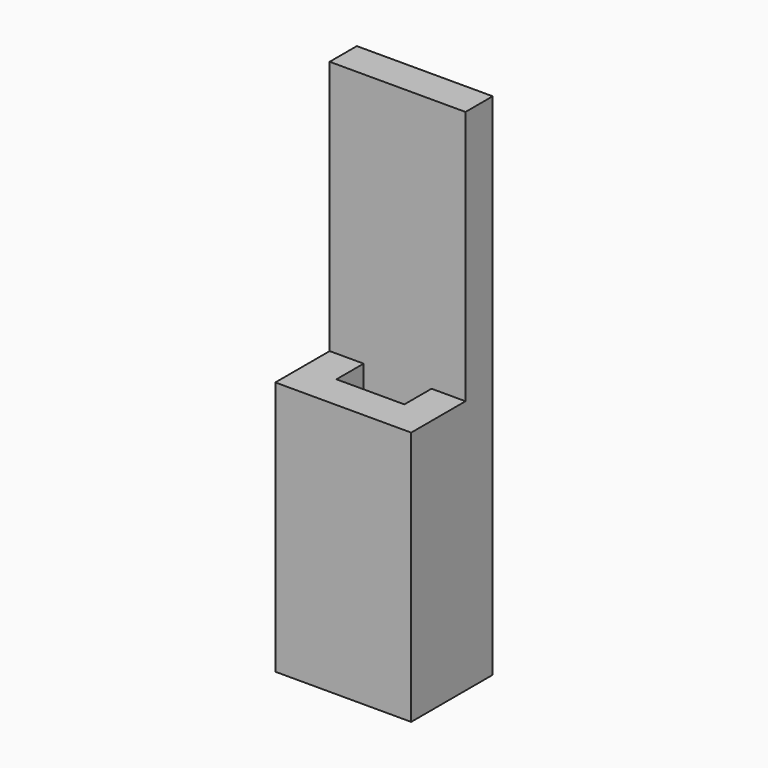
from build123d import *

# Parameters (mm, degrees)
F0_W     = 8
F0_H     = 6
F0_W_2   = 4
F0_H_2   = 2
F1_DEPTH = 15
F2_W     = 8
F2_H     = 2
F3_DEPTH = 15


with BuildPart() as f1:
    # F0 (on Top) → F1 (new body)
    with BuildSketch(Plane.XY):
        Rectangle(F0_W, F0_H)
        Rectangle(F0_W_2, F0_H_2, mode=Mode.SUBTRACT)
    extrude(amount=F1_DEPTH)

    # F2 (on face) → F3 (join)
    with BuildSketch(Plane.XY.offset(15)):
        with Locations((0, 2)):
            Rectangle(F2_W, F2_H)
    extrude(amount=F3_DEPTH)


solid = f1.part
